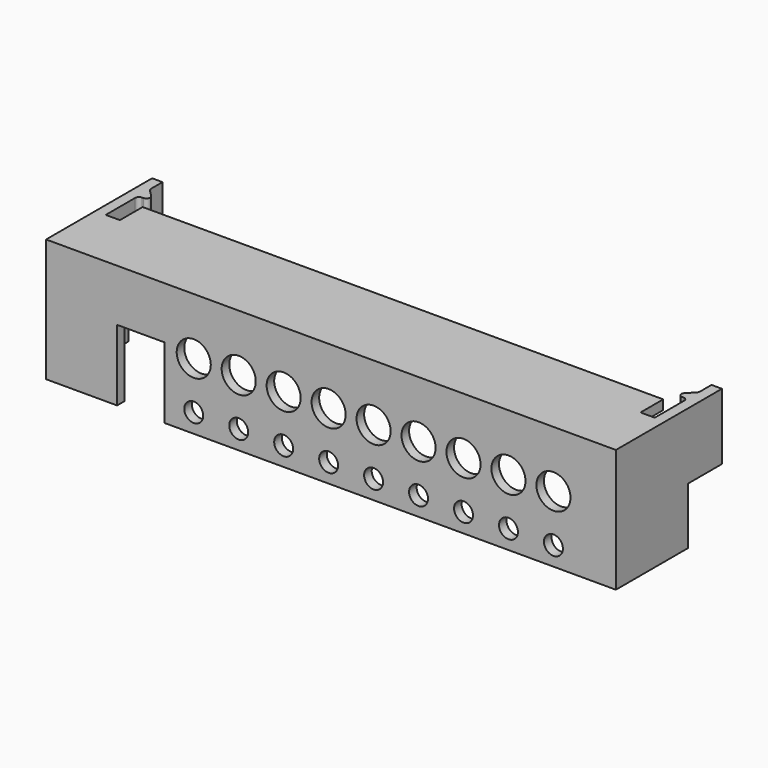
from build123d import *

# Parameters (mm, degrees)
F0_W      = 116
F0_H      = 17
F1_DEPTH  = 2
F2_W      = 17
F2_H      = 2
F3_DEPTH  = 2.2
F5_W      = 3
F5_H      = 6
F6_DEPTH  = 25
F8_DEPTH  = 14
F9_R      = 0.8
F10_R     = 2
F10_R_2   = 3.6
F11_DEPTH = 2


with BuildPart() as f1:
    # F0 (on Top) → F1 (new body)
    with BuildSketch(Plane.XY):
        with Locations((0, 8.5)):
            Rectangle(F0_W, F0_H)
    extrude(amount=F1_DEPTH)

    # F4: F3 across plane


with BuildPart() as f3:
    # F2 (on face) → F3 (new body)
    with BuildSketch(Plane(origin=(-58, 0, 0), x_dir=(0, -1, 0), z_dir=(-1, 0, 0))):
        Polygon((-17, 0), (-17, 2), (-26, 2), (-26, -12), (-17, -12), align=None)
        with Locations((-8.5, 1)):
            Rectangle(F2_W, F2_H)
        Polygon((0, 0), (-17, 0), (-17, -12), (-17, -24), (0, -24), align=None)
    extrude(amount=F3_DEPTH)


with BuildPart() as f1_1:
    add(f1.part)
    add(f3.part.mirror(Plane.YZ))

    # F5 (on face) → F6 (cut)
    with BuildSketch(Plane.XY.offset(2)):
        with Locations((-56.5, 14)):
            Rectangle(F5_W, F5_H)
        with Locations((56.5, 14)):
            Rectangle(F5_W, F5_H)
    extrude(amount=-F6_DEPTH, mode=Mode.SUBTRACT)


    add(f3.part)  # F8 merges F3
    # F7 (on face) → F8 (join, through all)
    with BuildSketch(Plane.XY.offset(2)):
        Polygon((-55, 19.6), (-58, 22.6), (-58, 19.6), align=None)
        Polygon((58, 19.6), (58, 22.6), (55, 19.6), align=None)
    extrude(amount=-F8_DEPTH)

    # F9
    f9_edges = [f1_1.edges().sort_by_distance(p)[0] for p in [
        (55, 19.6, -5),
        (-55, 19.6, -5),
        (58, 19.6, -5),
        (-58, 19.6, -5),
        (-58, 22.6, -5),
        (58, 22.6, -5),
    ]]
    fillet(f9_edges, radius=F9_R)

    # F10 (on face) → F11 (join)
    with BuildSketch(Plane.XZ):
        Polygon((-58, 0), (-58, -24), (-45.2, -24), (-45.2, -9), (-35.2, -9), (-35.2, -24), (58, -24), (58, 0), align=None)
        with Locations((-29, -20)):
            Circle(F10_R, mode=Mode.SUBTRACT)
        with Locations((-19.5, -20)):
            Circle(F10_R, mode=Mode.SUBTRACT)
        with Locations((-10, -20)):
            Circle(F10_R, mode=Mode.SUBTRACT)
        with Locations((-0.5, -20)):
            Circle(F10_R, mode=Mode.SUBTRACT)
        with Locations((9, -20)):
            Circle(F10_R, mode=Mode.SUBTRACT)
        with Locations((18.5, -20)):
            Circle(F10_R, mode=Mode.SUBTRACT)
        with Locations((28, -20)):
            Circle(F10_R, mode=Mode.SUBTRACT)
        with Locations((37.5, -20)):
            Circle(F10_R, mode=Mode.SUBTRACT)
        with Locations((47, -20)):
            Circle(F10_R, mode=Mode.SUBTRACT)
        with Locations((-29, -10)):
            Circle(F10_R_2, mode=Mode.SUBTRACT)
        with Locations((-19.5, -10)):
            Circle(F10_R_2, mode=Mode.SUBTRACT)
        with Locations((-10, -10)):
            Circle(F10_R_2, mode=Mode.SUBTRACT)
        with Locations((-0.5, -10)):
            Circle(F10_R_2, mode=Mode.SUBTRACT)
        with Locations((9, -10)):
            Circle(F10_R_2, mode=Mode.SUBTRACT)
        with Locations((18.5, -10)):
            Circle(F10_R_2, mode=Mode.SUBTRACT)
        with Locations((28, -10)):
            Circle(F10_R_2, mode=Mode.SUBTRACT)
        with Locations((37.5, -10)):
            Circle(F10_R_2, mode=Mode.SUBTRACT)
        with Locations((47, -10)):
            Circle(F10_R_2, mode=Mode.SUBTRACT)
        Polygon((60.2, 2), (-60.2, 2), (-60.2, -24), (-58, -24), (-58, 0), (58, 0), (58, -24), (60.2, -24), align=None)
    extrude(amount=F11_DEPTH)


solid = f1_1.part
